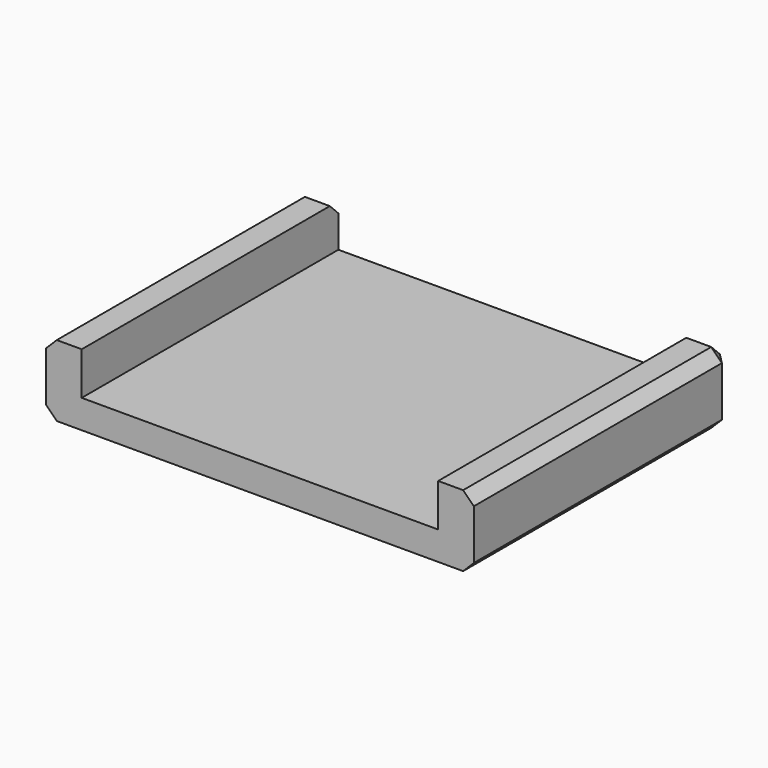
from build123d import *

# Parameters (mm, degrees)
F0_W     = 12
F0_H     = 9
F1_DEPTH = 2
F2_W     = 10
F2_H     = 9
F3_DEPTH = 1.2
F4_SIZE  = 0.3


with BuildPart() as f1:
    # F0 (on Top) → F1 (new body)
    with BuildSketch(Plane.XY):
        with Locations((0, -4.5)):
            Rectangle(F0_W, F0_H)
    extrude(amount=F1_DEPTH)

    # F2 (on face) → F3 (cut)
    with BuildSketch(Plane.XY.offset(2)):
        with Locations((0, -4.5)):
            Rectangle(F2_W, F2_H)
    extrude(amount=-F3_DEPTH, mode=Mode.SUBTRACT)

    # F4
    f4_edges = [f1.edges().sort_by_distance(p)[0] for p in [
        (-6, -4.5, 2),
        (6, -4.5, 2),
        (6, -4.5, 0),
        (-6, -4.5, 0),
        (0, 0, 0),
        (-6, 0, 1),
        (-5.5, 0, 2),
        (5.5, 0, 2),
        (6, 0, 1),
    ]]
    chamfer(f4_edges, length=F4_SIZE)


solid = f1.part
